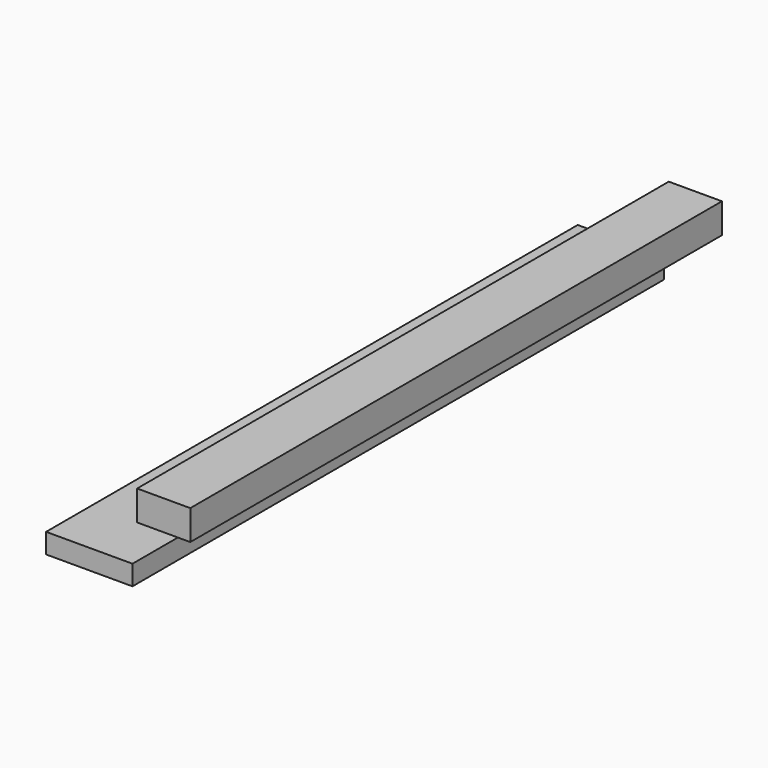
from build123d import *

# Parameters (mm, degrees)
F0_W     = 3.25
F0_H     = 0.75
F0_W_2   = 2
F0_H_2   = 1.125
F1_DEPTH = 25


with BuildPart() as f1:
    # F0 (on Front) → F1 (new body)
    with BuildSketch(Plane.XZ):
        Rectangle(F0_W, F0_H)
        with Locations((2.8, 2.361258)):
            Rectangle(F0_W_2, F0_H_2)
    extrude(amount=F1_DEPTH)


solid = f1.part
